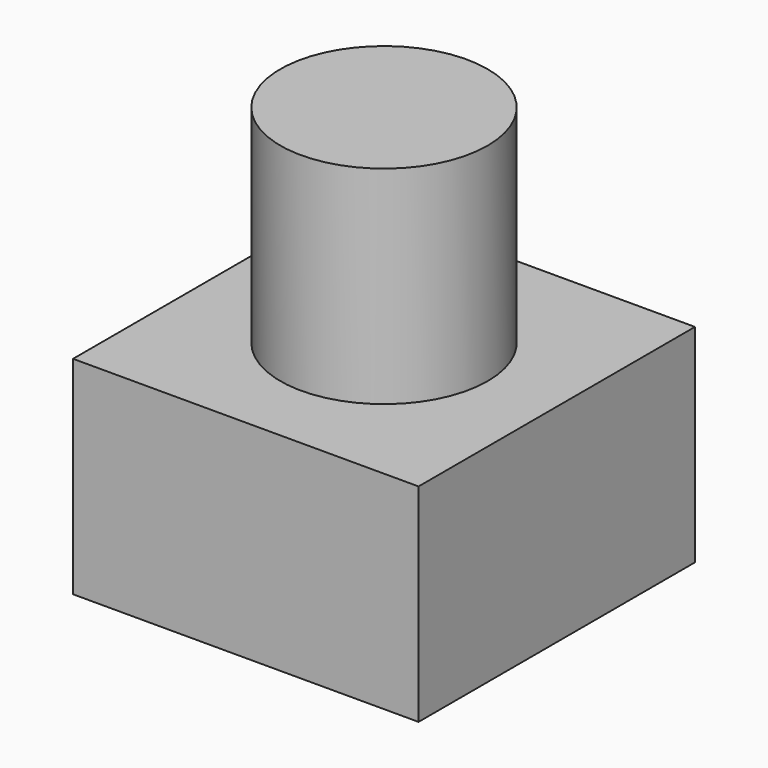
from build123d import *

# Parameters (mm, degrees)
F0_W     = 5
F0_H     = 5
F1_DEPTH = 3
F2_R     = 1.5
F3_DEPTH = 2
F4_DEPTH = 3


with BuildPart() as f1:
    # F0 (on Top) → F1 (new body)
    with BuildSketch(Plane.XY):
        with Locations((0.45608, -0.260135)):
            Rectangle(F0_W, F0_H)
    extrude(amount=F1_DEPTH)

    # F2 (on face) → F3 (cut)
    with BuildSketch(Plane.XY.offset(3)):
        with Locations((0.45608, -0.260135)):
            Circle(F2_R)
    extrude(amount=-F3_DEPTH, mode=Mode.SUBTRACT)


with BuildPart() as f4:
    # F2 (on face) → F4 (new body)
    with BuildSketch(Plane.XY.offset(3)):
        with Locations((0.45608, -0.260135)):
            Circle(F2_R)
    extrude(amount=F4_DEPTH)


solid = Compound([f1.part, f4.part])
